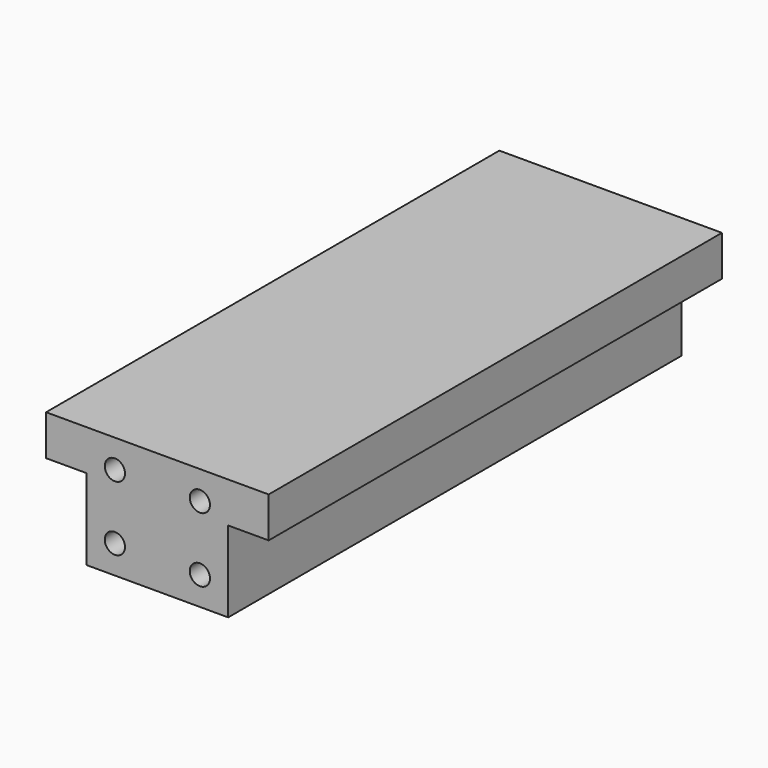
from build123d import *

# Parameters (mm, degrees)
F1_DEPTH = 70
F3_D     = 5
F3_DEPTH = 20
F3_TIP   = 1.5021515476
F5_D     = 5
F5_DEPTH = 15
F5_TIP   = 1.5021515476
F8_D     = 7
F8_DEPTH = 20
F8_TIP   = 2.1030121666


with BuildPart() as f1:
    # F0 (on Front) → F1 (new body, symmetric)
    with BuildSketch(Plane.XZ):
        Polygon((0, -20), (0, 10), (-27.5, 10), (-27.5, 0), (-17.5, 0), (-17.5, -20), align=None)
    extrude(amount=F1_DEPTH, both=True)

    # F3
    with Locations(Plane.XZ.offset(70)):
        with Locations((-10.5, 3), (-10.5, -13)):
            Hole(F3_D / 2, depth=F3_DEPTH)
            with Locations((0, 0, -(F3_DEPTH + F3_TIP / 2))):  # 118° drill point
                Cone(0, F3_D / 2, F3_TIP, mode=Mode.SUBTRACT)

    # F5
    with Locations(Plane(origin=(0, 0, -20), x_dir=(1, 0, 0), z_dir=(0, 0, -1))):
        with Locations((-12.5, 45), (-12.5, 0), (-12.5, -45)):
            Hole(F5_D / 2, depth=F5_DEPTH)
            with Locations((0, 0, -(F5_DEPTH + F5_TIP / 2))):  # 118° drill point
                Cone(0, F5_D / 2, F5_TIP, mode=Mode.SUBTRACT)

    # F6: F1 across plane


with BuildPart() as f1_1:
    add(f1.part)
    add(f1.part.mirror(Plane.YZ))

    # F8
    with Locations(Plane(origin=(0, 70, 0), x_dir=(-1, 0, 0), z_dir=(0, 1, 0))):
        with Locations((-10.5, 3), (10.5, 3), (0, -12)):
            Hole(F8_D / 2, depth=F8_DEPTH)
            with Locations((0, 0, -(F8_DEPTH + F8_TIP / 2))):  # 118° drill point
                Cone(0, F8_D / 2, F8_TIP, mode=Mode.SUBTRACT)


solid = f1_1.part
